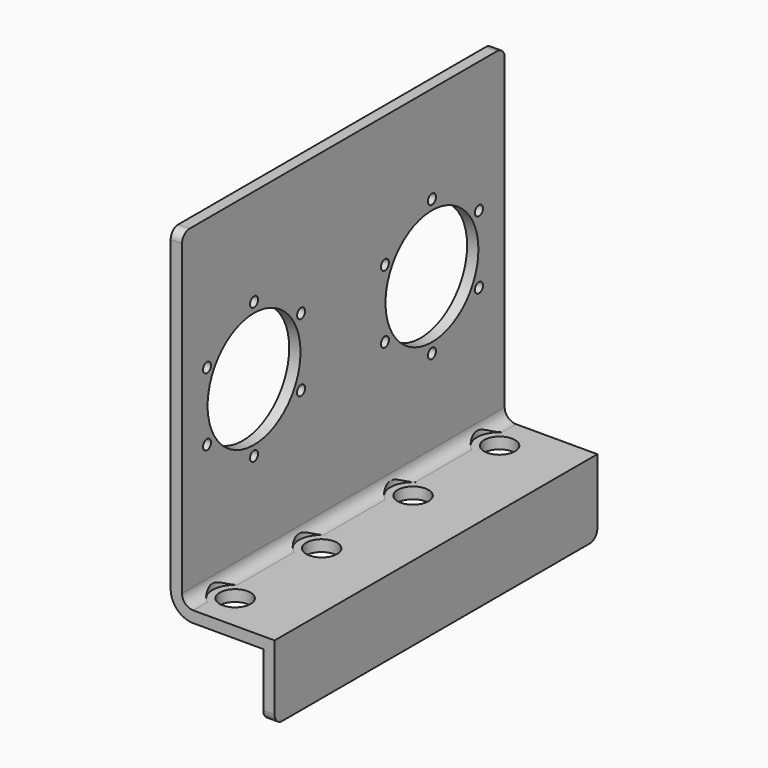
from build123d import *

# Parameters (mm, degrees)
F1_DEPTH  = 339.7
F2_R      = 7.95
F3_R      = 7.95
F4_R      = 48.895
F5_DEPTH  = 9.526
F6_D      = 8.4328
F8_D      = 26
F8_DEPTH  = 63.008
F9_R      = 19.05
F10_DEPTH = 25


with BuildPart() as f1:
    # F0 (on Front) → F1 (new body)
    with BuildSketch(Plane.XZ):
        with BuildLine():
            Line((0, -267.168), (0, 0))
            Line((0, 0), (-9.525, 0))
            Line((-9.525, 0), (-9.525, -267.168))
            ThreePointArc((-9.525, -267.168), (-3.9453841816, -280.6383841816), (9.525, -286.218))
            Line((9.525, -286.218), (68.513, -286.218))
            Line((68.513, -286.218), (68.513, -339.7))
            Line((68.513, -339.7), (78.038, -339.7))
            Line((78.038, -339.7), (78.038, -276.693))
            Line((78.038, -276.693), (9.525, -276.693))
            ThreePointArc((9.525, -276.693), (2.7898079092, -273.9031920908), (0, -267.168))
        make_face()
    extrude(amount=F1_DEPTH)

    # F2
    f2_edges = [f1.edges().sort_by_distance(p)[0] for p in [
        (-4.7625, -339.7, 0),
    ]]
    fillet(f2_edges, radius=F2_R)

    # F3
    f3_edges = [f1.edges().sort_by_distance(p)[0] for p in [
        (-4.7625, 0, 0),
        (73.2755, 0, -339.7),
        (73.2755, -339.7, -339.7),
    ]]
    fillet(f3_edges, radius=F3_R)

    # F4 (on face) → F5 (cut, through all)
    with BuildSketch(Plane.YZ):
        with Locations((-76.541, -139.04)):
            Circle(F4_R)
        with Locations((-263.83, -139.04)):
            Circle(F4_R)
    extrude(amount=-F5_DEPTH, mode=Mode.SUBTRACT)

    # F6 (through all)
    with Locations(Plane.YZ):
        with Locations((-263.83, -81.89), (-313.3233518263, -110.465), (-313.3233518263, -167.615), (-263.83, -196.19), (-214.3366481737, -167.615), (-214.3366481737, -110.465), (-126.0343518263, -110.465), (-76.541, -81.89), (-27.0476481737, -110.465), (-27.0476481737, -167.615), (-76.541, -196.19), (-126.0343518263, -167.615)):
            Hole(F6_D / 2)

    # F8 (through all, one way)
    with BuildSketch(Plane.XY.offset(-276.693)):
        with Locations((20.238, -30.665), (20.238, -121.745), (20.238, -217.955), (20.238, -309.035)):
            Circle(F8_D / 2)
    extrude(amount=-F8_DEPTH, mode=Mode.SUBTRACT)

    # F9 (on face) → F10 (cut)
    with BuildSketch(Plane.XY.offset(-276.693)):
        with Locations((20.238, -30.665)):
            Circle(F9_R)
        with Locations((20.238, -121.745)):
            Circle(F9_R)
        with Locations((20.238, -217.955)):
            Circle(F9_R)
        with Locations((20.238, -309.035)):
            Circle(F9_R)
    extrude(amount=F10_DEPTH, mode=Mode.SUBTRACT)


solid = f1.part
